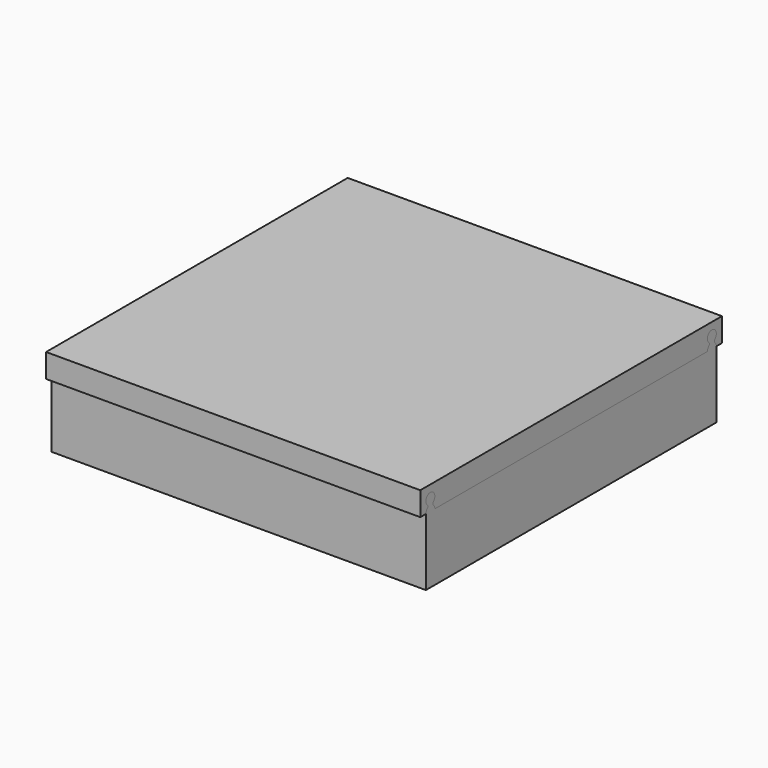
from build123d import *

# Parameters (mm, degrees)
F0_W     = 85.09
F0_H     = 82.55
F1_DEPTH = 15.24
F2_T     = -2.54
F4_DEPTH = 85.09
F7_DEPTH = 85.09
F8_T     = -2.54
F9_R     = 5.08


with BuildPart() as f1:
    # F0 (on Top) → F1 (new body)
    with BuildSketch(Plane.XY):
        with Locations((42.545, 41.275)):
            Rectangle(F0_W, F0_H)
    extrude(amount=F1_DEPTH)

    # F2
    f2_openings = [f1.faces().sort_by_distance(p)[0] for p in [
        (42.545, 41.275, 15.24),
    ]]
    offset(amount=F2_T, openings=f2_openings)

    # F3 (on face) → F4 (join, through all)
    with BuildSketch(Plane(origin=(0, 0, 0), x_dir=(0, -1, 0), z_dir=(-1, 0, 0))):
        with BuildLine():
            Line((-2.54, 15.24), (0, 15.24))
            ThreePointArc((0, 15.24), (-0.1165531164, 15.7714699302), (-0.4448193492, 16.2053895035))
            ThreePointArc((-0.4448193492, 16.2053895035), (-0.5851737267, 16.51), (-0.4448193492, 16.8146104965))
            ThreePointArc((-0.4448193492, 16.8146104965), (-1.27, 19.05), (-2.0951806508, 16.8146104965))
            ThreePointArc((-2.0951806508, 16.8146104965), (-1.9548262733, 16.51), (-2.0951806508, 16.2053895035))
            ThreePointArc((-2.0951806508, 16.2053895035), (-2.4234468836, 15.7714699302), (-2.54, 15.24))
        make_face()
        with BuildLine():
            ThreePointArc((-82.1051806508, 16.8146104965), (-81.9648262733, 16.51), (-82.1051806508, 16.2053895035))
            ThreePointArc((-82.1051806508, 16.2053895035), (-82.4334468836, 15.7714699302), (-82.55, 15.24))
            Line((-82.55, 15.24), (-80.01, 15.24))
            ThreePointArc((-80.01, 15.24), (-80.1265531164, 15.7714699302), (-80.4548193492, 16.2053895035))
            ThreePointArc((-80.4548193492, 16.2053895035), (-80.5951737267, 16.51), (-80.4548193492, 16.8146104965))
            ThreePointArc((-80.4548193492, 16.8146104965), (-81.28, 19.05), (-82.1051806508, 16.8146104965))
        make_face()
    extrude(amount=-F4_DEPTH)

    # F9
    f9_edges = [f1.edges().sort_by_distance(p)[0] for p in [
        (2.54, 80.01, 8.89),
        (42.545, 80.01, 2.54),
        (2.54, 41.275, 2.54),
        (42.545, 2.54, 2.54),
        (82.55, 41.275, 2.54),
        (2.54, 2.54, 8.89),
        (82.55, 2.54, 8.89),
        (82.55, 80.01, 8.89),
    ]]
    fillet(f9_edges, radius=F9_R)


with BuildPart() as f7:
    # F6 (on face) → F7 (new body, through all)
    with BuildSketch(Plane.YZ.offset(85.09)):
        with BuildLine():
            ThreePointArc((2.0951806508, 16.2053895035), (2.4234468836, 15.7714699302), (2.54, 15.24))
            Line((2.54, 15.24), (80.01, 15.24))
            ThreePointArc((80.01, 15.24), (80.1265531164, 15.7714699302), (80.4548193492, 16.2053895035))
            ThreePointArc((80.4548193492, 16.2053895035), (80.5951737267, 16.51), (80.4548193492, 16.8146104965))
            ThreePointArc((80.4548193492, 16.8146104965), (81.28, 19.05), (82.1051806508, 16.8146104965))
            ThreePointArc((82.1051806508, 16.8146104965), (81.9648262733, 16.51), (82.1051806508, 16.2053895035))
            ThreePointArc((82.1051806508, 16.2053895035), (82.4334468836, 15.7714699302), (82.55, 15.24))
            Line((82.55, 15.24), (84.1375, 15.24))
            Line((84.1375, 15.24), (84.1375, 20.6375))
            Line((84.1375, 20.6375), (-1.5875, 20.6375))
            Line((-1.5875, 20.6375), (-1.5875, 15.24))
            Line((-1.5875, 15.24), (0, 15.24))
            ThreePointArc((0, 15.24), (0.1165531164, 15.7714699302), (0.4448193492, 16.2053895035))
            ThreePointArc((0.4448193492, 16.2053895035), (0.5851737267, 16.51), (0.4448193492, 16.8146104965))
            ThreePointArc((0.4448193492, 16.8146104965), (1.27, 19.05), (2.0951806508, 16.8146104965))
            ThreePointArc((2.0951806508, 16.8146104965), (1.9548262733, 16.51), (2.0951806508, 16.2053895035))
        make_face()
    extrude(amount=-F7_DEPTH)

    # F8
    f8_openings = [f7.faces().sort_by_distance(p)[0] for p in [
        (42.545, 41.275, 15.24),
    ]]
    offset(amount=F8_T, openings=f8_openings)


solid = Compound([f1.part, f7.part])
